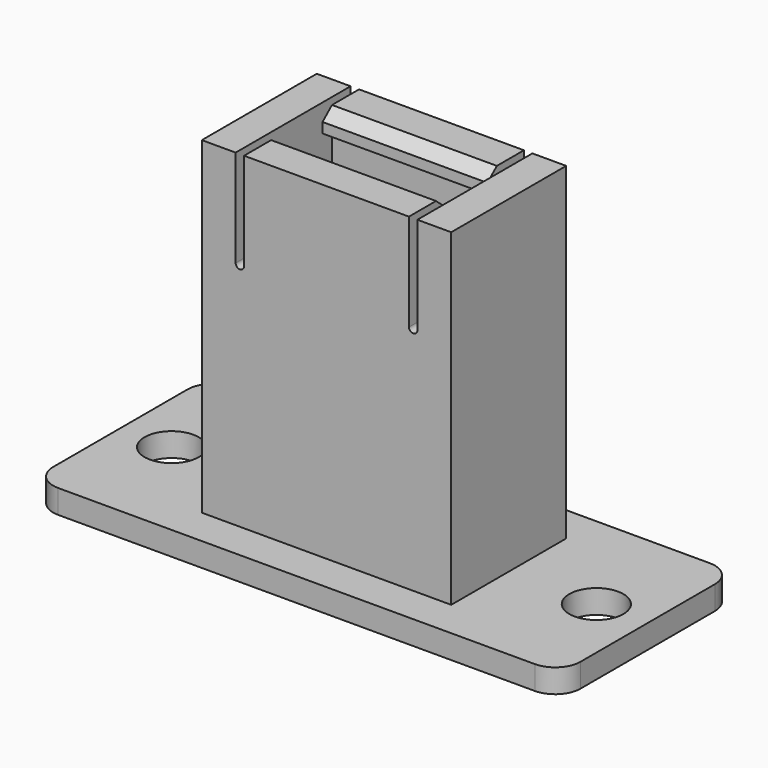
from build123d import *

# Parameters (mm, degrees)
F0_W      = 31.19
F0_H      = 12.93
F1_DEPTH  = 1.4
F2_R      = 1.6
F3_DEPTH  = 1.401
F4_R      = 1.5
F5_W      = 8.7
F5_H      = 3.4
F6_DEPTH  = 1.401
F7_W      = 14.75
F7_H      = 8.5
F8_DEPTH  = 19.4
F9_W      = 10.75
F9_H      = 4.5
F10_DEPTH = 19.4
F12_DEPTH = 10.716
F14_DEPTH = 9.75


with BuildPart() as f1:
    # F0 (on Top) → F1 (new body)
    with BuildSketch(Plane.XY):
        Rectangle(F0_W, F0_H)
    extrude(amount=F1_DEPTH)

    # F2 (on face) → F3 (cut, through all)
    with BuildSketch(Plane.XY.offset(1.4)):
        with Locations((-12.56, 0)):
            Circle(F2_R)
        with Locations((12.56, 0)):
            Circle(F2_R)
    extrude(amount=-F3_DEPTH, mode=Mode.SUBTRACT)

    # F4
    f4_edges = [f1.edges().sort_by_distance(p)[0] for p in [
        (15.595, -6.465, 0.7),
        (15.595, 6.465, 0.7),
        (-15.595, -6.465, 0.7),
        (-15.595, 6.465, 0.7),
    ]]
    fillet(f4_edges, radius=F4_R)

    # F5 (on face) → F6 (cut, through all)
    with BuildSketch(Plane.XY.offset(1.4)):
        Rectangle(F5_W, F5_H)
    extrude(amount=-F6_DEPTH, mode=Mode.SUBTRACT)

    # F7 (on face) → F8 (join)
    with BuildSketch(Plane.XY.offset(1.4)):
        Rectangle(F7_W, F7_H)
    extrude(amount=F8_DEPTH)

    # F9 (on face) → F10 (cut, through all)
    with BuildSketch(Plane.XY.offset(20.8)):
        Rectangle(F9_W, F9_H)
    extrude(amount=-F10_DEPTH, mode=Mode.SUBTRACT)

    # F11 (on face) → F12 (cut, through all)
    with BuildSketch(Plane.XZ.offset(4.25)):
        with BuildLine():
            Line((-4.875, 20.8), (-5.375, 20.8))
            Line((-5.375, 20.8), (-5.375, 15.05))
            ThreePointArc((-5.375, 15.05), (-5.125, 14.8), (-4.875, 15.05))
            Line((-4.875, 15.05), (-4.875, 20.8))
        make_face()
        with BuildLine():
            Line((5.375, 15.05), (5.375, 20.8))
            Line((5.375, 20.8), (4.875, 20.8))
            Line((4.875, 20.8), (4.875, 15.05))
            ThreePointArc((4.875, 15.05), (5.125, 14.8), (5.375, 15.05))
        make_face()
    extrude(amount=-F12_DEPTH, mode=Mode.SUBTRACT)

    # F13 (on face) → F14 (join, through all)
    with BuildSketch(Plane.YZ.offset(4.875)):
        Polygon((-1.55, 20.2), (-2.25, 20.8), (-2.25, 19.6), (-1.55, 19.6), align=None)
        Polygon((2.25, 19.6), (2.25, 20.8), (1.55, 20.2), (1.55, 19.6), align=None)
    extrude(amount=-F14_DEPTH)


solid = f1.part
